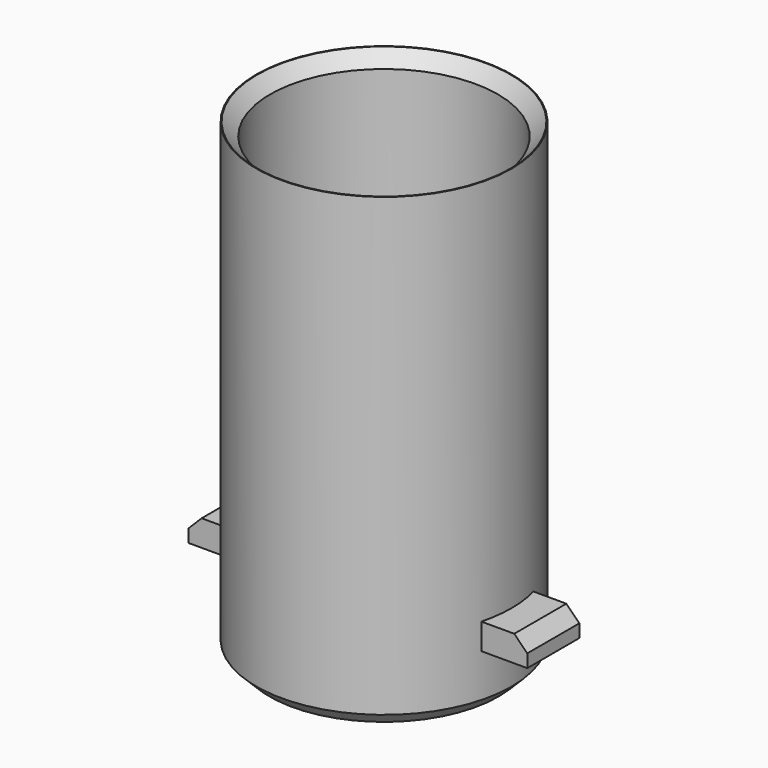
from build123d import *

# Parameters (mm, degrees)
F0_R     = 12.446
F1_DEPTH = 45.72
F3_W     = 33.02
F3_H     = 6.35
F4_DEPTH = 2.54
F5_R     = 11.0998
F6_DEPTH = 43.942
F7_W     = 5.7404
F7_H     = 13.462
F8_DEPTH = 25.4
F9_SIZE  = 1.27


with BuildPart() as f1:
    # F0 (on Top) → F1 (new body)
    with BuildSketch(Plane.XY):
        Circle(F0_R)
    extrude(amount=F1_DEPTH)

    # F3 (on offset) → F4 (join)
    with BuildSketch(Plane.XY.offset(5.461)):
        Rectangle(F3_W, F3_H)
    extrude(amount=F4_DEPTH)

    # F5 (on face) → F6 (cut)
    with BuildSketch(Plane.XY.offset(45.72)):
        Circle(F5_R)
    extrude(amount=-F6_DEPTH, mode=Mode.SUBTRACT)

    # F7 (on Front) → F8 (cut)
    with BuildSketch(Plane.XZ):
        with Locations((0, 8.509)):
            Rectangle(F7_W, F7_H)
    extrude(amount=-F8_DEPTH, mode=Mode.SUBTRACT)

    # F9
    f9_edges = [f1.edges().sort_by_distance(p)[0] for p in [
        (-12.446, 0, 0),
        (-16.51, 0, 8.001),
        (16.51, 0, 8.001),
        (-11.0998, 0, 45.72),
    ]]
    chamfer(f9_edges, length=F9_SIZE)


solid = f1.part
